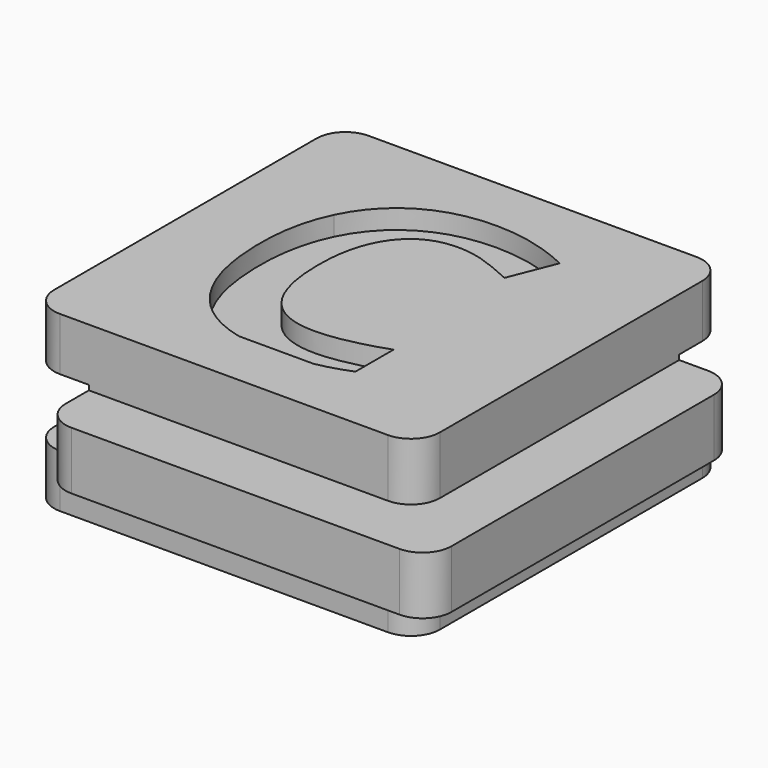
from build123d import *

# Parameters (mm, degrees)
F0_W     = 14
F0_H     = 3
F0_W_2   = 3
F1_DEPTH = 20
F2_DEPTH = 3
F3_W     = 3
F3_H     = 3
F4_DEPTH = 100
F5_W     = 3
F5_H     = 3.5
F6_DEPTH = 100
F7_R     = 1.5
F9_DEPTH = 1


with BuildPart() as f1:
    # F0 (on Front) → F1 (new body)
    with BuildSketch(Plane.XZ):
        Polygon((10, 1.5), (10, 4.5), (-10, 4.5), (-10, 1.5), (-7, 1.5), (7, 1.5), align=None)
        Rectangle(F0_W, F0_H)
        with Locations((11.5, 0)):
            Rectangle(F0_W_2, F0_H)
        with Locations((8.5, 0)):
            Rectangle(F0_W_2, F0_H)
        with Locations((-8.5, 0)):
            Rectangle(F0_W_2, F0_H)
        Polygon((10, -4.5), (10, -1.5), (7, -1.5), (-7, -1.5), (-10, -1.5), (-10, -4.5), align=None)
    extrude(amount=-F1_DEPTH)

    # F0 (on Front) → F2 (join)
    with BuildSketch(Plane.XZ):
        with Locations((-8.5, 0)):
            Rectangle(F0_W_2, F0_H)
        Rectangle(F0_W, F0_H)
        with Locations((8.5, 0)):
            Rectangle(F0_W_2, F0_H)
        with Locations((11.5, 0)):
            Rectangle(F0_W_2, F0_H)
    extrude(amount=F2_DEPTH)

    # F3 (on face) → F4 (cut)
    with BuildSketch(Plane.YZ.offset(13)):
        Polygon((23, -1.75), (23, 1.75), (17, 1.75), (17, 1.5), (20, 1.5), (20, -1.5), (17, -1.5), (17, -1.75), align=None)
        with Locations((18.5, 0)):
            Rectangle(F3_W, F3_H)
    extrude(amount=-F4_DEPTH, mode=Mode.SUBTRACT)

    # F5 (on face) → F6 (cut)
    with BuildSketch(Plane(origin=(0, 17, 0), x_dir=(-1, 0, 0), z_dir=(0, 1, 0))):
        with Locations((11.5, 0)):
            Rectangle(F5_W, F5_H)
        with Locations((8.5, 0)):
            Rectangle(F5_W, F5_H)
    extrude(amount=-F6_DEPTH, mode=Mode.SUBTRACT)

    # F7
    f7_edges = [f1.edges().sort_by_distance(p)[0] for p in [
        (-7, -3, 0),
        (13, -3, 0),
        (10, 0, 3),
        (10, 0, -3),
        (-10, 0, -3.125),
        (-10, 0, 3.125),
        (-7, 17, 0),
        (-10, 20, 3.125),
        (-10, 20, -3.125),
        (13, 17, 0),
        (10, 20, 3.125),
        (10, 20, -3.125),
    ]]
    fillet(f7_edges, radius=F7_R)

    # F8 (on face) → F9 (cut)
    with BuildSketch(Plane.XY.offset(4.5)):
        with BuildLine():
            Line((-1.6191336456, 3), (2.2633536651, 3))
            add(Edge.make_bspline(
                [(4.0033986182, 3.5225694444), (3.1800065383, 3.1782684858), (2.2633536651, 3)],
                knots=[0, 0, 0, 0.4822306436, 0.4822306436, 0.4822306436], degree=2))
            Line((4.0033986182, 3.5225694444), (4.0033986182, 5.9895833333))
            add(Edge.make_bspline(
                [(0.4639020904, 5.2604166667), (1.9252736182, 5.2604166667), (4.0033986182, 5.9895833333)],
                knots=[0, 0, 0, 1, 1, 1], degree=2))
            add(Edge.make_bspline(
                [(-3.0209069374, 9.9027777778), (-3.0209069374, 5.2604166667), (0.4639020904, 5.2604166667)],
                knots=[0, 0, 0, 1, 1, 1], degree=2))
            add(Edge.make_bspline(
                [(-2.109448604, 13.3815104167), (-3.0209069374, 12.1328125), (-3.0209069374, 9.9027777778)],
                knots=[0, 0, 0, 1, 1, 1], degree=2))
            add(Edge.make_bspline(
                [(0.4639020904, 14.6302083333), (-1.1979902707, 14.6302083333), (-2.109448604, 13.3815104167)],
                knots=[0, 0, 0, 1, 1, 1], degree=2))
            add(Edge.make_bspline(
                [(2.0103430626, 14.3552517361), (1.2234507015, 14.6302083333), (0.4639020904, 14.6302083333)],
                knots=[0, 0, 0, 1, 1, 1], degree=2))
            add(Edge.make_bspline(
                [(3.578051396, 13.7096354167), (2.7972354237, 14.0802951389), (2.0103430626, 14.3552517361)],
                knots=[0, 0, 0, 1, 1, 1], degree=2))
            Line((3.578051396, 13.7096354167), (4.5259680626, 16.1037326389))
            add(Edge.make_bspline(
                [(0.4639020904, 17.0789930556), (2.484301396, 17.0789930556), (4.5259680626, 16.1037326389)],
                knots=[0, 0, 0, 1, 1, 1], degree=2))
            add(Edge.make_bspline(
                [(-2.9966013818, 16.2115885417), (-1.5200388818, 17.0789930556), (0.4639020904, 17.0789930556)],
                knots=[0, 0, 0, 1, 1, 1], degree=2))
            add(Edge.make_bspline(
                [(-5.2615753401, 13.7157118056), (-4.4731638818, 15.3441840278), (-2.9966013818, 16.2115885417)],
                knots=[0, 0, 0, 1, 1, 1], degree=2))
            add(Edge.make_bspline(
                [(-6.0499867985, 9.9210069444), (-6.0499867985, 12.0872395833), (-5.2615753401, 13.7157118056)],
                knots=[0, 0, 0, 1, 1, 1], degree=2))
            add(Edge.make_bspline(
                [(-4.4458201318, 4.6467013889), (-6.0499867985, 6.4848090278), (-6.0499867985, 9.9210069444)],
                knots=[0, 0, 0, 1, 1, 1], degree=2))
            add(Edge.make_bspline(
                [(-1.6191336456, 3), (-3.3593104462, 3.4017423741), (-4.4458201318, 4.6467013889)],
                knots=[0.3226952609, 0.3226952609, 0.3226952609, 1, 1, 1], degree=2))
        make_face()
    extrude(amount=-F9_DEPTH, mode=Mode.SUBTRACT)


solid = f1.part
